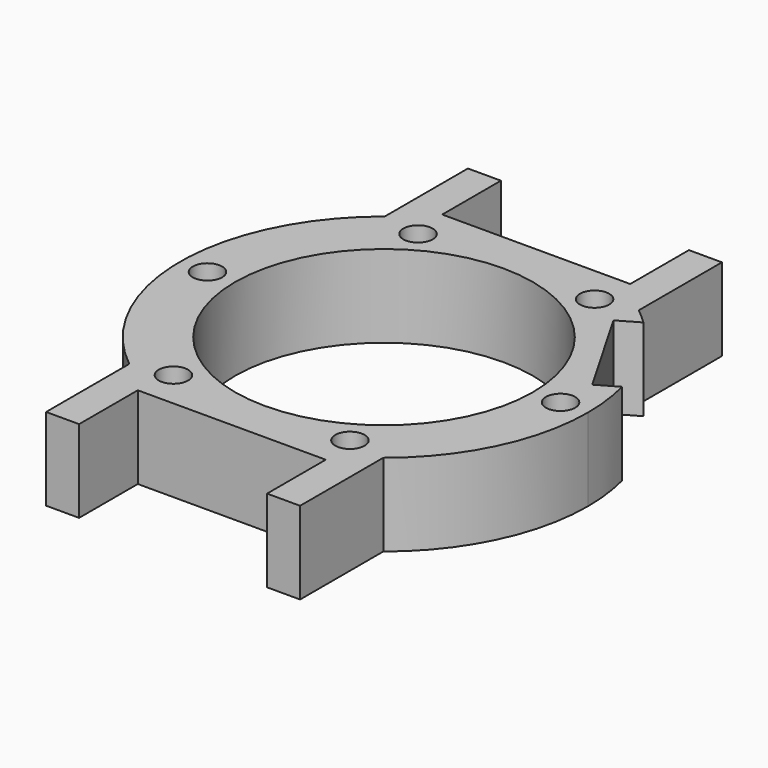
from build123d import *

# Parameters (mm, degrees)
F0_R     = 16.25
F1_DEPTH = 9
F2_D     = 3.2
F2_DEPTH = 40


with BuildPart() as f1:
    # F0 (on Top) → F1 (new body)
    with BuildSketch(Plane.XY):
        with BuildLine():
            ThreePointArc((13.85, -17.413788), (20.040272, -9.666954), (22.25, 0))
            ThreePointArc((22.25, 0), (22.075626, 2.780148), (21.555238, 5.51672))
            Line((21.555238, 5.51672), (19.324579, 4.228848))
            Line((19.324579, 4.228848), (13.324579, 14.621152))
            Line((13.324579, 14.621152), (15.555238, 15.909024))
            ThreePointArc((15.555238, 15.909024), (14.721858, 16.683207), (13.85, 17.413788))
            Line((13.85, 17.413788), (-13.85, 17.413788))
            ThreePointArc((-13.85, 17.413788), (-22.25, 0), (-13.85, -17.413788))
            Line((-13.85, -17.413788), (13.85, -17.413788))
        make_face()
        Circle(F0_R, mode=Mode.SUBTRACT)
        with BuildLine():
            ThreePointArc((-8.031189, -20.75), (-11.067032, -19.302417), (-13.85, -17.413788))
            Line((-13.85, -17.413788), (-13.85, -28.75))
            Line((-13.85, -28.75), (-10.25, -28.75))
            Line((-10.25, -28.75), (-10.25, -20.75))
            Line((-10.25, -20.75), (-8.031189, -20.75))
        make_face()
        with BuildLine():
            ThreePointArc((8.031189, -20.75), (11.067032, -19.302417), (13.85, -17.413788))
            Line((13.85, -17.413788), (-13.85, -17.413788))
            ThreePointArc((-13.85, -17.413788), (-11.067032, -19.302417), (-8.031189, -20.75))
            Line((-8.031189, -20.75), (8.031189, -20.75))
        make_face()
        with BuildLine():
            Line((13.85, -28.75), (13.85, -17.413788))
            ThreePointArc((13.85, -17.413788), (11.067032, -19.302417), (8.031189, -20.75))
            Line((8.031189, -20.75), (10.25, -20.75))
            Line((10.25, -20.75), (10.25, -28.75))
            Line((10.25, -28.75), (13.85, -28.75))
        make_face()
        with BuildLine():
            ThreePointArc((8.031189, 20.75), (11.067032, 19.302417), (13.85, 17.413788))
            Line((13.85, 17.413788), (13.85, 28.75))
            Line((13.85, 28.75), (10.25, 28.75))
            Line((10.25, 28.75), (10.25, 20.75))
            Line((10.25, 20.75), (8.031189, 20.75))
        make_face()
        with BuildLine():
            Line((-13.85, 17.413788), (13.85, 17.413788))
            ThreePointArc((13.85, 17.413788), (11.067032, 19.302417), (8.031189, 20.75))
            Line((8.031189, 20.75), (-8.031189, 20.75))
            ThreePointArc((-8.031189, 20.75), (-11.067032, 19.302417), (-13.85, 17.413788))
        make_face()
        with BuildLine():
            Line((-13.85, 28.75), (-13.85, 17.413788))
            ThreePointArc((-13.85, 17.413788), (-11.067032, 19.302417), (-8.031189, 20.75))
            Line((-8.031189, 20.75), (-10.25, 20.75))
            Line((-10.25, 20.75), (-10.25, 28.75))
            Line((-10.25, 28.75), (-13.85, 28.75))
        make_face()
    extrude(amount=F1_DEPTH)

    # F2
    with Locations(Plane(origin=(0, 0, 0), x_dir=(1, 0, 0), z_dir=(0, 0, -1))):
        with Locations((-9.625, -16.670989), (9.625, -16.670989), (19.25, 0), (9.625, 16.670989), (-9.625, 16.670989), (-19.25, 0)):
            Hole(F2_D / 2, depth=F2_DEPTH)


solid = f1.part
